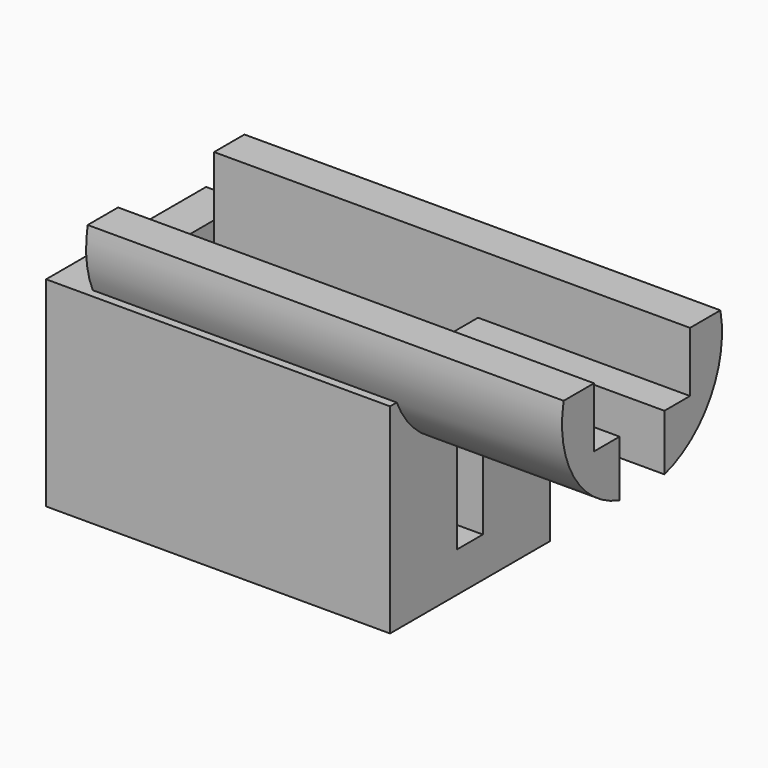
from build123d import *

# Parameters (mm, degrees)
BOX051_W          = 10
BOX051_H          = 8
BOX051_DEPTH      = 40
BOX050_W          = 67
BOX050_H          = 14
BOX050_DEPTH      = 25
BOX049_W          = 67
BOX049_H          = 30
BOX049_DEPTH      = 15
BOX048_W          = 119
BOX048_H          = 70
BOX048_DEPTH      = 30
BOX046_W          = 66
BOX046_H          = 30
BOX046_DEPTH      = 60
CYLINDER101_R     = 25
CYLINDER101_DEPTH = 119
BOX047_W          = 86
BOX047_H          = 50
BOX047_DEPTH      = 50


with BuildPart() as cube030:
    # Box051 → Box051 (new body)
    with BuildSketch(Plane(origin=(66, 11, 0), x_dir=(1, 0, 0), z_dir=(0, 0, 1))):
        with Locations((5, 4)):
            Rectangle(BOX051_W, BOX051_H)
    extrude(amount=BOX051_DEPTH)


with BuildPart() as cube029:
    # Box050 → Box050 (new body)
    with BuildSketch(Plane(origin=(81, 8, 15), x_dir=(1, 0, 0), z_dir=(0, 0, 1))):
        with Locations((33.5, 7)):
            Rectangle(BOX050_W, BOX050_H)
    extrude(amount=BOX050_DEPTH)


with BuildPart() as cube028:
    # Box049 → Box049 (new body)
    with BuildSketch(Plane(origin=(66, 0, 40), x_dir=(1, 0, 0), z_dir=(0, 0, 1))):
        with Locations((33.5, 15)):
            Rectangle(BOX049_W, BOX049_H)
    extrude(amount=BOX049_DEPTH)


with BuildPart() as cube027:
    # Box048 → Box048 (new body)
    with BuildSketch(Plane(origin=(0, -13, 55), x_dir=(1, 0, 0), z_dir=(0, 0, 1))):
        with Locations((59.5, 35)):
            Rectangle(BOX048_W, BOX048_H)
    extrude(amount=BOX048_DEPTH)


with BuildPart() as cube025:
    # Box046 → Box046 (new body)
    with BuildSketch(Plane.XY):
        with Locations((33, 15)):
            Rectangle(BOX046_W, BOX046_H)
    extrude(amount=BOX046_DEPTH)


with BuildPart() as cut111:
    # Cylinder101 → Cylinder101 (new body)
    with BuildSketch(Plane(origin=(0, 15, 50), x_dir=(0, 0, -1), z_dir=(1, 0, 0))):
        Circle(CYLINDER101_R)
    extrude(amount=CYLINDER101_DEPTH)

    # Cut108: cut Cube025
    add(cube025.part, mode=Mode.SUBTRACT)

    # Cut109: cut Cube027
    add(cube027.part, mode=Mode.SUBTRACT)

    # Cut110: cut Cube028
    add(cube028.part, mode=Mode.SUBTRACT)

    # Cut111: cut Cube029
    add(cube029.part, mode=Mode.SUBTRACT)


with BuildPart() as cut112:
    # Box047 → Box047 (new body)
    with BuildSketch(Plane(origin=(-10, -10, -10), x_dir=(1, 0, 0), z_dir=(0, 0, 1))):
        with Locations((43, 25)):
            Rectangle(BOX047_W, BOX047_H)
    extrude(amount=BOX047_DEPTH)

    # Cut107: cut Cube025
    add(cube025.part, mode=Mode.SUBTRACT)

    # Fusion031: union Cut111
    add(cut111.part)

    # Cut112: cut Cube030
    add(cube030.part, mode=Mode.SUBTRACT)


solid = cut112.part
